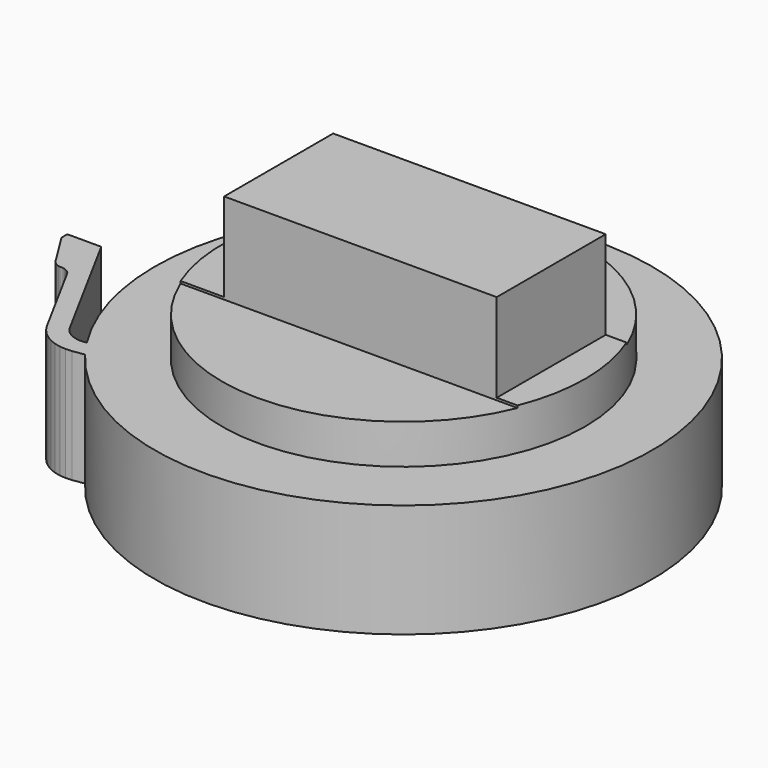
from build123d import *

# Parameters (mm, degrees)
EXTRUDE001_DEPTH        = 10
BOX004_W                = 17
BOX004_H                = 16
BOX004_DEPTH            = 25
BOX005_W                = 17
BOX005_H                = 16
BOX005_DEPTH            = 25
BOX006_W                = 17
BOX006_H                = 16
BOX006_DEPTH            = 25
BOX003_W                = 17
BOX003_H                = 16
BOX003_DEPTH            = 25
CYLINDER006_R           = 8
CYLINDER006_DEPTH       = 6
EXTRUDE_DEPTH           = 5
EXTRUDE_PLACEMENT_ANGLE = 90


with BuildPart() as stepper_axis:
    # Sketch003 (on Face140 of Part__Feature) → Extrude001 (new body)
    with BuildSketch(Plane(origin=(-0.300362, -8.01257, -12.75), x_dir=(1, 0, 0), z_dir=(0, 0, 1))):
        with BuildLine():
            Line((-2.088538, 9.514445), (2.111462, 9.514445))
            ThreePointArc((2.101642, 6.522728), (2.584459, 8.017018), (2.111462, 9.514445))
            Line((-2.098358, 6.522728), (2.101642, 6.522728))
            ThreePointArc((-2.088538, 9.514445), (-2.573641, 8.020163), (-2.098358, 6.522728))
        make_face()
    extrude(amount=EXTRUDE001_DEPTH)


with BuildPart() as stepper_axis_1:
    # Extrude001 placement: moved
    add(stepper_axis.part.moved(Location((0, 0, 3))))


with BuildPart() as cube004:
    # Box004 → Box004 (new body)
    with BuildSketch(Plane(origin=(-8.5, -19, 2), x_dir=(1, 0, 0), z_dir=(0, 0, 1))):
        with Locations((8.5, 8)):
            Rectangle(BOX004_W, BOX004_H)
    extrude(amount=BOX004_DEPTH)


with BuildPart() as cube005:
    # Box005 → Box005 (new body)
    with BuildSketch(Plane(origin=(6.5, -3, 2.1), x_dir=(1, 0, 0), z_dir=(0, 0, 1))):
        with Locations((8.5, 8)):
            Rectangle(BOX005_W, BOX005_H)
    extrude(amount=BOX005_DEPTH)


with BuildPart() as cube006:
    # Box006 → Box006 (new body)
    with BuildSketch(Plane(origin=(-22.5, -12, 2.1), x_dir=(1, 0, 0), z_dir=(0, 0, 1))):
        with Locations((8.5, 8)):
            Rectangle(BOX006_W, BOX006_H)
    extrude(amount=BOX006_DEPTH)


with BuildPart() as fusion001:
    # Box003 → Box003 (new body)
    with BuildSketch(Plane(origin=(-8.5, 3, 2), x_dir=(1, 0, 0), z_dir=(0, 0, 1))):
        with Locations((8.5, 8)):
            Rectangle(BOX003_W, BOX003_H)
    extrude(amount=BOX003_DEPTH)

    # Fusion001: union Cube004, Cube005, Cube006
    add(cube004.part)
    add(cube005.part)
    add(cube006.part)


with BuildPart() as cut004:
    # Cylinder006 → Cylinder006 (new body)
    with BuildSketch(Plane.XY):
        Circle(CYLINDER006_R)
    extrude(amount=CYLINDER006_DEPTH)

    # Cut004: cut Fusion001
    add(fusion001.part, mode=Mode.SUBTRACT)


with BuildPart() as clutch_fit:
    # Sketch → Extrude (new body)
    with BuildSketch(Plane.YZ):
        with BuildLine():
            Line((76.233353, -16.168262), (76.215729, -16.28697))
            Line((76.215729, -16.28697), (76.204231, -16.437162))
            Line((76.204231, -16.437162), (76.215622, -16.589155))
            Line((76.215622, -16.589155), (76.252785, -16.739346))
            Line((76.252785, -16.739346), (76.312019, -16.88286))
            Line((76.312019, -16.88286), (76.388969, -17.011848))
            Line((76.388969, -17.011848), (76.485733, -17.129137))
            Line((76.485733, -17.129137), (76.599709, -17.23061))
            Line((76.599709, -17.23061), (76.728439, -17.313751))
            Line((76.728439, -17.313751), (82.114944, -20.238707))
            Line((82.114944, -20.238707), (82.114944, -21.732918))
            Line((82.114944, -21.732918), (81.789139, -21.729336))
            Line((81.789139, -21.729336), (80.303963, -20.801414))
            Line((80.303963, -20.801414), (80.242294, -20.755711))
            Line((80.242294, -20.755711), (80.188026, -20.701096))
            Line((80.188026, -20.701096), (80.142899, -20.638897))
            Line((80.142899, -20.638897), (80.107841, -20.570471))
            Line((80.107841, -20.570471), (80.083717, -20.497528))
            Line((80.083717, -20.497528), (80.071022, -20.421675))
            Line((80.071022, -20.421675), (80.059006, -20.286879))
            Line((80.059006, -20.286879), (80.045197, -20.206167))
            Line((80.045197, -20.206167), (80.01815, -20.128645))
            Line((80.01815, -20.128645), (79.97892, -20.056633))
            Line((79.97892, -20.056633), (79.92849, -19.992046))
            Line((79.92849, -19.992046), (79.868156, -19.936562))
            Line((79.868156, -19.936562), (79.799576, -19.891676))
            Line((79.799576, -19.891676), (76.345589, -18.015881))
            Line((76.345589, -18.015881), (76.11525, -17.86721))
            Line((76.11525, -17.86721), (75.910469, -17.684519))
            Line((75.910469, -17.684519), (75.734512, -17.473183))
            Line((75.734512, -17.473183), (75.59462, -17.237131))
            Line((75.59462, -17.237131), (75.490318, -16.982098))
            Line((75.490318, -16.982098), (75.42775, -16.714771))
            Line((75.42775, -16.714771), (75.404984, -16.441053))
            Line((75.404984, -16.441053), (75.425179, -16.167168))
            Line((75.425179, -16.167168), (75.501405, -15.659048))
            ThreePointArc((76.233353, -16.168262), (88.369051, 2.056336), (75.501405, -15.659048))
        make_face()
    extrude(amount=EXTRUDE_DEPTH)


with BuildPart() as clutch_fit_1:
    # Extrude placement: moved
    add(clutch_fit.part.moved(Location((6.886491, -82.061934, 0.254467))).rotate(Axis((6.886491, -82.061934, 0.254467), (0, 1, 0)), EXTRUDE_PLACEMENT_ANGLE))

    # Fusion002: union Cut004
    add(cut004.part)

    # Cut007: cut stepper_axis
    add(stepper_axis_1.part, mode=Mode.SUBTRACT)


with BuildPart() as clutch_fit_2:
    # Cut007 placement: moved
    add(clutch_fit_1.part.moved(Location((0, 0, 5))))


solid = clutch_fit_2.part
